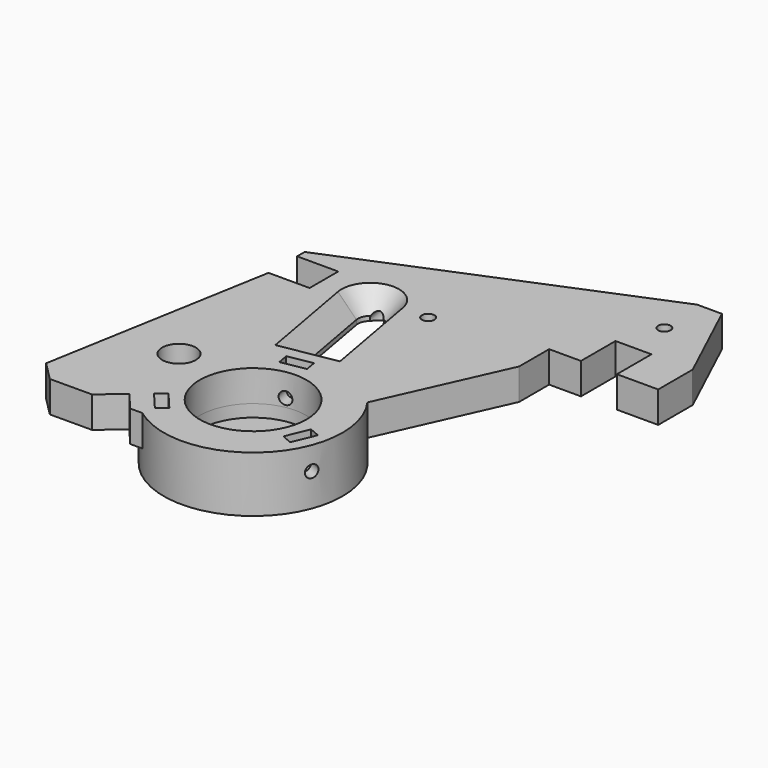
from build123d import *

# Parameters (mm, degrees)
F0_R      = 1.525
F0_R_2    = 13
F1_DEPTH  = 7.6
F0_R_3    = 6.5
F2_DEPTH  = 6
F3_DEPTH  = 3
F4_DEPTH  = 6
F5_DEPTH  = 2
F6_SIZE2  = 5
F6_SIZE   = 4
F7_SIZE2  = 1.5
F7_SIZE   = 4
F8_R      = 1.5
F11_DEPTH = 45
F12_DEPTH = 10
F9_R      = 1.5
F13_DEPTH = 10
F14_DEPTH = 10
F10_R     = 1.5
F15_DEPTH = 15
F16_DEPTH = 10


with BuildPart() as f1:
    # F0 (on Top) → F1 (new body)
    with BuildSketch(Plane.XY):
        with BuildLine():
            Line((11.4654492345, 28.1041493633), (11.4654492345, 17.6041493633))
            Line((11.4654492345, 17.6041493633), (21.5054492345, 17.6041493633))
            Line((21.5054492345, 17.6041493633), (21.5054492345, 28.1041493633))
            Line((21.5054492345, 28.1041493633), (11.5113214177, 49.4730095995))
            Line((11.5113214177, 49.4730095995), (5.4613214177, 49.4730095995))
            Line((5.4613214177, 49.4730095995), (-66.2845185672, 19.8239773236))
            Line((-66.2845185672, 19.8239773236), (-66.2845185672, 17.5239773236))
            Line((-66.2845185672, 17.5239773236), (-56.2845185672, 17.5239773236))
            Line((-56.2845185672, 17.5239773236), (-56.2845185672, 8.8239773236))
            Line((-56.2845185672, 8.8239773236), (-66.2845185672, 8.8239773236))
            Line((-66.2845185672, 8.8239773236), (-76.0307126449, -46.6298285987))
            Line((-76.0307126449, -46.6298285987), (-71.4345185672, -51.2260226764))
            Line((-71.4345185672, -51.2260226764), (-61.2180819327, -51.1889110274))
            Line((-61.2180819327, -51.1889110274), (-55.7966974161, -46.606532264))
            Line((-55.7966974161, -46.606532264), (-51.9234810694, -51.1889110274))
            Line((-51.9234810694, -51.1889110274), (-48.9812307256, -51.1833146176))
            ThreePointArc((-48.9812307256, -51.1833146176), (-55.8366672394, -42.5867224617), (-57.6113446632, -31.7355047176))
            ThreePointArc((-57.6113446632, -31.7355047176), (-62.7216685586, -26.760327644), (-55.8293902254, -24.9261257448))
            ThreePointArc((-55.8293902254, -24.9261257448), (-49.3810695109, -16.6521794806), (-39.8099914805, -12.3587551881))
            ThreePointArc((-39.8099914805, -12.3587551881), (-27.7993054872, -13.6020861151), (-18.3026540226, -21.0597037496))
            Line((-18.3026540226, -21.0597037496), (-5.0345507655, 8.4941493633))
            Line((-5.0345507655, 8.4941493633), (-5.0345507655, 17.6041493633))
            Line((-5.0345507655, 17.6041493633), (2.7154492345, 17.6041493633))
            Line((2.7154492345, 17.6041493633), (2.7154492345, 28.1041493633))
            Line((2.7154492345, 28.1041493633), (11.4654492345, 28.1041493633))
        make_face()
        with BuildLine():
            Line((-36.8574590489, -11.8271979792), (-39.8099914805, -12.3587551881))
            Line((-39.8099914805, -12.3587551881), (-42.7625236411, -12.8903123481))
            Line((-42.7625236411, -12.8903123481), (-47.1873519708, 11.6873792538))
            Line((-47.1873519708, 11.6873792538), (-47.1921668449, 11.7141234529))
            ThreePointArc((-47.1921668449, 11.7141234529), (-44.7687897478, 15.1848711151), (-41.2871022526, 12.7772378218))
            Line((-41.2871022526, 12.7772378218), (-41.2822873786, 12.7504936227))
            Line((-41.2822873786, 12.7504936227), (-36.8574590489, -11.8271979792))
        make_face(mode=Mode.SUBTRACT)
        with Locations((-31.119161509, 13.4325037545)):
            Circle(F0_R, mode=Mode.SUBTRACT)
        with Locations((6.6226837225, 38.0824916065)):
            Circle(F0_R, mode=Mode.SUBTRACT)
        with BuildLine():
            ThreePointArc((-48.9812307256, -51.1833146176), (-20.7176395084, -49.2839158598), (-18.3026540226, -21.0597037496))
            ThreePointArc((-18.3026540226, -21.0597037496), (-27.7993054872, -13.6020861151), (-39.8099914805, -12.3587551881))
            ThreePointArc((-39.8099914805, -12.3587551881), (-49.3810695109, -16.6521794806), (-55.8293902254, -24.9261257448))
            ThreePointArc((-55.8293902254, -24.9261257448), (-54.9601088644, -26.2468514875), (-54.6552348922, -27.7983083618))
            ThreePointArc((-54.6552348922, -27.7983083618), (-55.4765194472, -30.2600201708), (-57.6113446632, -31.7355047176))
            ThreePointArc((-57.6113446632, -31.7355047176), (-55.8366672394, -42.5867224617), (-48.9812307256, -51.1833146176))
        make_face()
        Polygon((-50.1124866335, -41.8020018535), (-46.2392702868, -46.3843806169), (-48.33952722, -48.1596047758), (-52.2127435668, -43.5772260124), align=None, mode=Mode.SUBTRACT)
        with Locations((-35.9562017577, -33.7646143106)):
            Circle(F0_R_2, mode=Mode.SUBTRACT)
        Polygon((-41.7437057042, -18.5493325824), (-42.2309664567, -15.8428446443), (-36.3259018644, -14.7797302754), (-35.838641112, -17.4862182135), align=None, mode=Mode.SUBTRACT)
        Polygon((-22.0480286327, -41.9629163019), (-19.7605397552, -36.416079849), (-17.2182397143, -37.4645122512), (-19.5057285918, -43.0113487041), align=None, mode=Mode.SUBTRACT)
    extrude(amount=F1_DEPTH)

    # F0 (on Top) → F2 (join)
    with BuildSketch(Plane.XY):
        with BuildLine():
            ThreePointArc((-48.9812307256, -51.1833146176), (-20.7176395084, -49.2839158598), (-18.3026540226, -21.0597037496))
            ThreePointArc((-18.3026540226, -21.0597037496), (-27.7993054872, -13.6020861151), (-39.8099914805, -12.3587551881))
            ThreePointArc((-39.8099914805, -12.3587551881), (-49.3810695109, -16.6521794806), (-55.8293902254, -24.9261257448))
            ThreePointArc((-55.8293902254, -24.9261257448), (-54.9601088644, -26.2468514875), (-54.6552348922, -27.7983083618))
            ThreePointArc((-54.6552348922, -27.7983083618), (-55.4765194472, -30.2600201708), (-57.6113446632, -31.7355047176))
            ThreePointArc((-57.6113446632, -31.7355047176), (-55.8366672394, -42.5867224617), (-48.9812307256, -51.1833146176))
        make_face()
        Polygon((-50.1124866335, -41.8020018535), (-46.2392702868, -46.3843806169), (-48.33952722, -48.1596047758), (-52.2127435668, -43.5772260124), align=None, mode=Mode.SUBTRACT)
        with Locations((-35.9562017577, -33.7646143106)):
            Circle(F0_R_2, mode=Mode.SUBTRACT)
        Polygon((-41.7437057042, -18.5493325824), (-42.2309664567, -15.8428446443), (-36.3259018644, -14.7797302754), (-35.838641112, -17.4862182135), align=None, mode=Mode.SUBTRACT)
        Polygon((-22.0480286327, -41.9629163019), (-19.7605397552, -36.416079849), (-17.2182397143, -37.4645122512), (-19.5057285918, -43.0113487041), align=None, mode=Mode.SUBTRACT)
        with Locations((-35.9562017577, -33.7646143106)):
            Circle(F0_R_2)
        with Locations((-35.9562017577, -33.7646143106)):
            Circle(F0_R_3, mode=Mode.SUBTRACT)
    extrude(amount=-F2_DEPTH)

    # F0 (on Top) → F3 (cut)
    with BuildSketch(Plane.XY):
        with Locations((-35.9562017577, -33.7646143106)):
            Circle(F0_R_2)
        with Locations((-35.9562017577, -33.7646143106)):
            Circle(F0_R_3, mode=Mode.SUBTRACT)
    extrude(amount=-F3_DEPTH, mode=Mode.SUBTRACT)

    # F0 (on Top) → F4 (join)
    with BuildSketch(Plane.XY):
        Polygon((-48.33952722, -48.1596047758), (-46.2392702868, -46.3843806169), (-50.1124866335, -41.8020018535), (-52.2127435668, -43.5772260124), align=None)
        Polygon((-36.3259018644, -14.7797302754), (-42.2309664567, -15.8428446443), (-41.7437057042, -18.5493325824), (-35.838641112, -17.4862182135), align=None)
        Polygon((-17.2182397143, -37.4645122512), (-19.7605397552, -36.416079849), (-22.0480286327, -41.9629163019), (-19.5057285918, -43.0113487041), align=None)
    extrude(amount=-F4_DEPTH)

    # F0 (on Top) → F5 (cut)
    with BuildSketch(Plane.XY):
        Polygon((-36.3259018644, -14.7797302754), (-42.2309664567, -15.8428446443), (-41.7437057042, -18.5493325824), (-35.838641112, -17.4862182135), align=None)
        Polygon((-17.2182397143, -37.4645122512), (-19.7605397552, -36.416079849), (-22.0480286327, -41.9629163019), (-19.5057285918, -43.0113487041), align=None)
        Polygon((-48.33952722, -48.1596047758), (-46.2392702868, -46.3843806169), (-50.1124866335, -41.8020018535), (-52.2127435668, -43.5772260124), align=None)
    extrude(amount=-F5_DEPTH, mode=Mode.SUBTRACT)

    # F6
    f6_edges = [f1.edges().sort_by_distance(p)[0] for p in [
        (-44.76879, 15.184871, 7.6),
        (-39.072281, 0.47502, 7.6),
        (-44.977345, -0.588094, 7.6),
    ]]
    f6_side = f1.faces().sort_by_distance((-32.346153, -0.818971, 7.6))[0]
    chamfer(f6_edges, length=F6_SIZE, length2=F6_SIZE2, reference=f6_side)

    # F7
    f7_edges = [f1.edges().sort_by_distance(p)[0] for p in [
        (-39.072281, 0.47502, 0),
        (-44.977345, -0.588094, 0),
        (-44.76879, 15.184871, 0),
    ]]
    f7_side = f1.faces().sort_by_distance((-31.55219, 6.99064, 0))[0]
    chamfer(f7_edges, length=F7_SIZE, length2=F7_SIZE2, reference=f7_side)

    # F8 (on face) → F11 (cut)
    with BuildSketch(Plane(origin=(1.4368780264, -7.9811333617, 0), x_dir=(0.984177432, 0.1771857282, 0), z_dir=(0.1771857282, -0.984177432, 0))):
        with Locations((-41.3698900842, 2)):
            Circle(F8_R)
    extrude(amount=-F11_DEPTH, mode=Mode.SUBTRACT)

    # F8 (on face) → F12 (cut)
    with BuildSketch(Plane(origin=(1.4368780264, -7.9811333617, 0), x_dir=(0.984177432, 0.1771857282, 0), z_dir=(0.1771857282, -0.984177432, 0))):
        with Locations((-41.3698900842, 2)):
            Circle(F8_R)
    extrude(amount=F12_DEPTH, mode=Mode.SUBTRACT)

    # F9 (on face) → F13 (cut)
    with BuildSketch(Plane(origin=(-1.5110668178, 0.6231567432, 0), x_dir=(-0.3812481463, -0.9244727422, 0), z_dir=(-0.9244727422, 0.3812481463, 0))):
        with Locations((44.199342347, 2)):
            Circle(F9_R)
    extrude(amount=-F13_DEPTH, mode=Mode.SUBTRACT)

    # F9 (on face) → F14 (cut)
    with BuildSketch(Plane(origin=(-1.5110668178, 0.6231567432, 0), x_dir=(-0.3812481463, -0.9244727422, 0), z_dir=(-0.9244727422, 0.3812481463, 0))):
        with Locations((44.199342347, 2)):
            Circle(F9_R)
    extrude(amount=F14_DEPTH, mode=Mode.SUBTRACT)

    # F10 (on face) → F15 (cut)
    with BuildSketch(Plane(origin=(-51.939047377, -43.9010343142, 0), x_dir=(-0.6455360578, 0.7637297939, 0), z_dir=(0.7637297939, 0.6455360578, 0))):
        with Locations((-2.576017193, 2)):
            Circle(F10_R)
    extrude(amount=-F15_DEPTH, mode=Mode.SUBTRACT)

    # F10 (on face) → F16 (cut)
    with BuildSketch(Plane(origin=(-51.939047377, -43.9010343142, 0), x_dir=(-0.6455360578, 0.7637297939, 0), z_dir=(0.7637297939, 0.6455360578, 0))):
        with Locations((-2.576017193, 2)):
            Circle(F10_R)
    extrude(amount=F16_DEPTH, mode=Mode.SUBTRACT)


solid = f1.part
